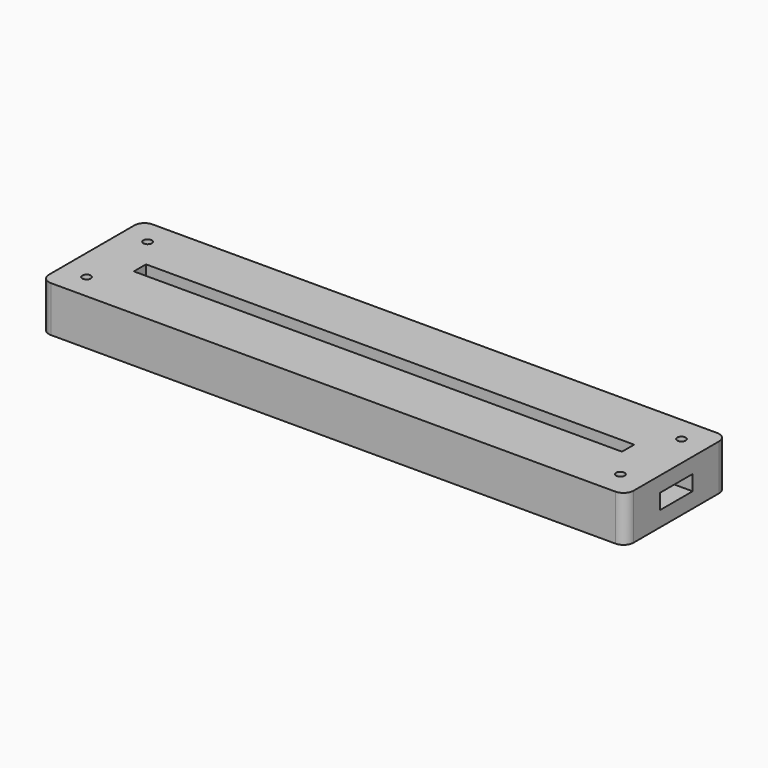
from build123d import *

# Parameters (mm, degrees)
SKETCH_W              = 115
SKETCH_H              = 25
PAD_DEPTH             = 3
PAD001_DEPTH          = 3
SKETCH002_W           = 115
SKETCH002_H           = 25
SKETCH002_W_2         = 96
SKETCH002_H_2         = 3
PAD002_DEPTH          = 3
SKETCH003_R           = 0.825
POCKET_DEPTH          = 245.060315
POLARPATTERN_COUNT    = 2
POLARPATTERN001_COUNT = 2
POLARPATTERN002_COUNT = 2
FILLET_R              = 2
SKETCH004_R           = 12.75
POCKET001_DEPTH       = 3
POCKET002_DEPTH       = 3
FILLET001_R           = 0.4
FILLET002_R           = 2


with BuildPart() as part:
    # Sketch → Pad (new body)
    with BuildSketch(Plane.XY):
        Rectangle(SKETCH_W, SKETCH_H)
    extrude(amount=PAD_DEPTH)

    # Sketch001 (on Face6 of Pad) → Pad001 (join)
    with BuildSketch(Plane.XY.offset(3)):
        Polygon((-57.5, 12.5), (57.5, 12.5), (57.5, 4), (50, 4), (50, 5), (-50, 5), (-50, 4), (-57.5, 4), align=None)
        Polygon((-57.5, -12.5), (57.5, -12.5), (57.5, -4), (50, -4), (50, -5), (-50, -5), (-50, -4), (-57.5, -4), align=None)
    extrude(amount=PAD001_DEPTH)

    # Sketch002 (on Face12 of Pad001) → Pad002 (join)
    with BuildSketch(Plane.XY.offset(6)):
        Rectangle(SKETCH002_W, SKETCH002_H)
        Rectangle(SKETCH002_W_2, SKETCH002_H_2, mode=Mode.SUBTRACT)
    extrude(amount=PAD002_DEPTH)

    # Sketch003 (on Face26 of Pad002) → Pocket (cut, through all)
    with BuildSketch(Plane.XY.offset(9)):
        with Locations((-52.5, 7.5)):
            Circle(SKETCH003_R)
    pocket = extrude(amount=-POCKET_DEPTH, mode=Mode.SUBTRACT)

    # PolarPattern: Pocket ×2 about axis
    polarpattern_axis = Axis((0, 0, 0), (0, 1, 0))
    for i in range(1, POLARPATTERN_COUNT):
        add(pocket.rotate(polarpattern_axis, i * 360 / POLARPATTERN_COUNT), mode=Mode.SUBTRACT)

    # PolarPattern001: Pocket ×2 about axis
    polarpattern001_axis = Axis((0, 0, 0), (1, 0, 0))
    for i in range(1, POLARPATTERN001_COUNT):
        add(pocket.rotate(polarpattern001_axis, i * 360 / POLARPATTERN001_COUNT), mode=Mode.SUBTRACT)

    # PolarPattern002: Pocket ×2 about axis
    polarpattern002_axis = Axis((0, 0, 9), (0, 0, 1))
    for i in range(1, POLARPATTERN002_COUNT):
        add(pocket.rotate(polarpattern002_axis, i * 360 / POLARPATTERN002_COUNT), mode=Mode.SUBTRACT)

    # Fillet
    fillet_edges = [part.edges().sort_by_distance(p)[0] for p in [
        (57.5, 12.5, 7.5),
        (57.5, 12.5, 4.5),
        (57.5, 12.5, 1.5),
        (57.5, -12.5, 7.5),
        (-57.5, 12.5, 7.5),
        (-57.5, -12.5, 7.5),
    ]]
    fillet(fillet_edges, radius=FILLET_R)

    # Sketch004 (on Face2 of Fillet) → Pocket001 (cut)
    with BuildSketch(Plane(origin=(0, 0, 0), x_dir=(1, 0, 0), z_dir=(0, 0, -1))):
        with Locations((0, -4.31247)):
            Circle(SKETCH004_R)
    extrude(amount=-POCKET001_DEPTH, mode=Mode.SUBTRACT)

    # Sketch005 (on Face2 of Pocket001) → Pocket002 (cut)
    with BuildSketch(Plane(origin=(0, 0, 0), x_dir=(1, 0, 0), z_dir=(0, 0, -1))):
        Polygon((0.086598, 10.584693), (-49.736099, 10.584693), (-49.736099, 6.30074), (-54.94091, 3.161258), (-54.94091, -2.621142), (-51.300568, -2.835279), (-51.086433, 1.161956), (-44.025761, 5.729707), (0.086598, 5.729707), align=None)
    extrude(amount=-POCKET002_DEPTH, mode=Mode.SUBTRACT)

    # Fillet001
    fillet001_edges = [part.edges().sort_by_distance(p)[0] for p in [
        (-7.856028, -5.729707, 1.5),
    ]]
    fillet(fillet001_edges, radius=FILLET001_R)

    # Fillet002
    fillet002_edges = [part.edges().sort_by_distance(p)[0] for p in [
        (0.086598, -8.437236, 1.5),
    ]]
    fillet(fillet002_edges, radius=FILLET002_R)


solid = part.part
